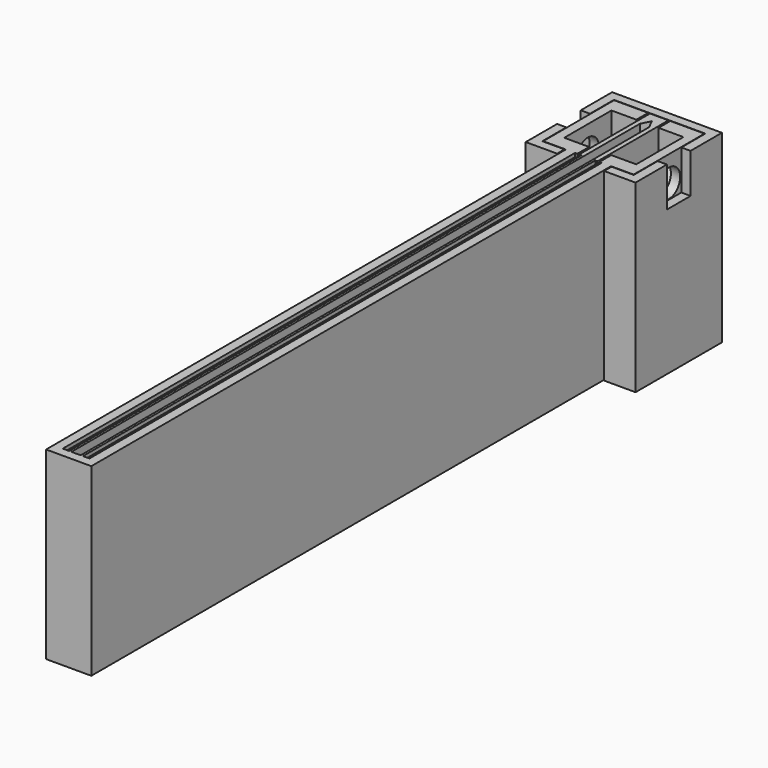
from build123d import *

# Parameters (mm, degrees)
RECTANGLE019_W         = 3.2
RECTANGLE019_H         = 4.3
EXTRUSION029_DEPTH     = 17.8604402213
EXTRUSION028_DEPTH     = 20
FACE001_W              = 70.4
FACE001_H              = 20
EXTRUSION027_DEPTH     = 1.2
FACE_W                 = 70.4
FACE_H                 = 20
EXTRUSION026_DEPTH     = 1.2
CLONE2D008_W           = 0.7
CLONE2D008_H           = 69.4
EXTRUSION025_DEPTH     = 0.4
RECTANGLE018_W         = 0.7
RECTANGLE018_H         = 69.4
EXTRUSION024_DEPTH     = 0.4
RECTANGLE017_W         = 0.7
RECTANGLE017_H         = 69.4
EXTRUSION023_DEPTH     = 0.3
RECTANGLE016_W         = 0.7
RECTANGLE016_H         = 69.4
EXTRUSION022_DEPTH     = 0.3
CLONE2D004_R           = 1.5
EXTRUSION_DEPTH        = 1
CIRCLE001_R            = 1.5
EXTRUSION020_DEPTH     = 1.5
CIRCLE_R               = 1.5
EXTRUSION019_DEPTH     = 18.8711460539
RECTANGLE014_W         = 9.6
RECTANGLE014_H         = 20
EXTRUSION017_DEPTH     = 1
RECTANGLE013_W         = 6.4
RECTANGLE013_H         = 2.7712812921
EXTRUSION016_DEPTH     = 2.7
RECTANGLE012_W         = 6.4
RECTANGLE012_H         = 2.7712812921
EXTRUSION015_DEPTH     = 2.7
EXTRUSION014_DEPTH     = 2.7
EXTRUSION013_DEPTH     = 2.7
RECTANGLE011_W         = 9.6
RECTANGLE011_H         = 20
EXTRUSION011_DEPTH     = 0.25
RECTANGLE010_W         = 9.44665831
RECTANGLE010_H         = 103.1218659611
EXTRUSION010_DEPTH     = 80.6022812444
RECTANGLE009_W         = 15.0148324292
RECTANGLE009_H         = 103.2643527035
EXTRUSION009_DEPTH     = 80.6022812444
RECTANGLE008_W         = 7.8
RECTANGLE008_H         = 20
EXTRUSION008_DEPTH     = 104.8179216702
RECTANGLE005_W         = 1
RECTANGLE005_H         = 200.9596025133
EXTRUSION005_DEPTH     = 79
RECTANGLE004_W         = 0.2
RECTANGLE004_H         = 30
EXTRUSION003_DEPTH     = 79
CLONE2D_W              = 0.2
CLONE2D_H              = 30
EXTRUSION004_DEPTH     = 79
RECTANGLE002_W         = 20
RECTANGLE002_H         = 20
EXTRUSION002_DEPTH     = 80
EXTRUSION006_DEPTH     = 55.9863181429
RECTANGLE006_W         = 20
RECTANGLE006_H         = 1
EXTRUSION007_DEPTH     = 2
CUT005_PLACEMENT_ANGLE = 270
CLONE2D002_W           = 9.6
CLONE2D002_H           = 20
EXTRUSION012_DEPTH     = 0.25
RECTANGLE015_W         = 9.6
RECTANGLE015_H         = 20
EXTRUSION018_DEPTH     = 1
CIRCLE002_R            = 1.5
EXTRUSION021_DEPTH     = 1
CIRCLE003_R            = 1.5
EXTRUSION030_DEPTH     = 1


with BuildPart() as extrusion030:
    # Rectangle019 → Extrusion029 (new body)
    with BuildSketch(Plane(origin=(46.5756657044, 93.2944395523, -63.8), x_dir=(0, -1, 0), z_dir=(-1, 0, 0))):
        with Locations((1.6, 2.15)):
            Rectangle(RECTANGLE019_W, RECTANGLE019_H)
    extrude(amount=-EXTRUSION029_DEPTH)


with BuildPart() as cut018002:
    # Wire001 → Extrusion028 (new body)
    with BuildSketch(Plane(origin=(55.0756657044, 85.8444395523, -59.5), x_dir=(1, 0, 0), z_dir=(0, 0, 1))):
        Polygon((0, 0), (3.4, 0), (3.4, 11.7), (-8.5, 11.7), (-8.5, 0), (-5.1, 0), (-5.1, 1), (-7.5, 1), (-7.5, 10.7), (2.4, 10.7), (2.4, 1), (0, 1), align=None)
    extrude(amount=-EXTRUSION028_DEPTH)

    # Cut018002: cut Extrusion030
    add(extrusion030.part, mode=Mode.SUBTRACT)


with BuildPart() as extrusion028:
    # Face001 → Extrusion027 (new body)
    with BuildSketch(Plane(origin=(56.1756657044, 51.6944395523, -69.5), x_dir=(0, -1, 0), z_dir=(1, 0, 0))):
        Rectangle(FACE001_W, FACE001_H)
    extrude(amount=-EXTRUSION027_DEPTH)


with BuildPart() as extrusion027:
    # Face → Extrusion026 (new body)
    with BuildSketch(Plane(origin=(48.8756657044, 51.6944395523, -69.5), x_dir=(0, 1, 0), z_dir=(-1, 0, 0))):
        Rectangle(FACE_W, FACE_H)
    extrude(amount=-EXTRUSION026_DEPTH)


with BuildPart() as extrusion026:
    # Clone2D008 → Extrusion025 (new body)
    with BuildSketch(Plane(origin=(51.0756657044, 86.8944395523, -59.5), x_dir=(1, 0, 0), z_dir=(0, 0, -1))):
        with Locations((0.35, 34.7)):
            Rectangle(CLONE2D008_W, CLONE2D008_H)
    extrude(amount=EXTRUSION025_DEPTH)


with BuildPart() as extrusion025:
    # Rectangle018 → Extrusion024 (new body)
    with BuildSketch(Plane(origin=(53.2756657044, 86.8944395523, -59.5), x_dir=(1, 0, 0), z_dir=(0, 0, -1))):
        with Locations((0.35, 34.7)):
            Rectangle(RECTANGLE018_W, RECTANGLE018_H)
    extrude(amount=EXTRUSION024_DEPTH)


with BuildPart() as extrusion024:
    # Rectangle017 → Extrusion023 (new body)
    with BuildSketch(Plane(origin=(51.0756657044, 86.8944395523, -79.5), x_dir=(1, 0, 0), z_dir=(0, 0, -1))):
        with Locations((0.35, 34.7)):
            Rectangle(RECTANGLE017_W, RECTANGLE017_H)
    extrude(amount=-EXTRUSION023_DEPTH)


with BuildPart() as extrusion023:
    # Rectangle016 → Extrusion022 (new body)
    with BuildSketch(Plane(origin=(53.2756657044, 86.8944395523, -79.5), x_dir=(1, 0, 0), z_dir=(0, 0, -1))):
        with Locations((0.35, 34.7)):
            Rectangle(RECTANGLE016_W, RECTANGLE016_H)
    extrude(amount=-EXTRUSION022_DEPTH)


with BuildPart() as extrusion:
    # Clone2D004 → Extrusion (new body)
    with BuildSketch(Plane(origin=(52.0256657044, 53.8444395523, -76.7287187079), x_dir=(0, -1, 0), z_dir=(-1, 0, 0))):
        Circle(CLONE2D004_R)
    extrude(amount=-EXTRUSION_DEPTH)


with BuildPart() as extrusion021:
    # Circle001 → Extrusion020 (new body)
    with BuildSketch(Plane(origin=(51.5256657044, 91.6944395523, -62.2712812921), x_dir=(0, -1, 0), z_dir=(-1, 0, 0))):
        Circle(CIRCLE001_R)
    extrude(amount=-EXTRUSION020_DEPTH)


with BuildPart() as extrusion019:
    # Circle → Extrusion019 (new body)
    with BuildSketch(Plane(origin=(48.6256657044, 91.6944395523, -62.2712812921), x_dir=(0, -1, 0), z_dir=(-1, 0, 0))):
        Circle(CIRCLE_R)
    extrude(amount=EXTRUSION019_DEPTH)


with BuildPart() as cut013:
    # Rectangle014 → Extrusion017 (new body)
    with BuildSketch(Plane(origin=(48.6256657044, 96.4944395523, -79.5), x_dir=(0, -1, 0), z_dir=(-1, 0, 0))):
        with Locations((4.8, 10)):
            Rectangle(RECTANGLE014_W, RECTANGLE014_H)
    extrude(amount=EXTRUSION017_DEPTH)

    # Cut013: cut Extrusion019
    add(extrusion019.part, mode=Mode.SUBTRACT)


with BuildPart() as extrusion016:
    # Rectangle013 → Extrusion016 (new body)
    with BuildSketch(Plane(origin=(56.4256657044, 88.4944395523, -62.2712812921), x_dir=(0, 1, 0), z_dir=(1, 0, 0))):
        with Locations((3.2, 1.3856406461)):
            Rectangle(RECTANGLE013_W, RECTANGLE013_H)
    extrude(amount=-EXTRUSION016_DEPTH)


with BuildPart() as extrusion015:
    # Rectangle012 → Extrusion015 (new body)
    with BuildSketch(Plane(origin=(48.6256657044, 94.8944395523, -62.2712812921), x_dir=(0, -1, 0), z_dir=(-1, 0, 0))):
        with Locations((3.2, 1.3856406461)):
            Rectangle(RECTANGLE012_W, RECTANGLE012_H)
    extrude(amount=-EXTRUSION015_DEPTH)


with BuildPart() as extrusion014:
    # Polygon → Extrusion014 (new body)
    with BuildSketch(Plane(origin=(48.6256657044, 91.6944395523, -62.2712812921), x_dir=(0, 1, 0), z_dir=(1, 0, 0))):
        Polygon((3.2, 0), (1.6, 2.7712812921), (-1.6, 2.7712812921), (-3.2, 0), (-1.6, -2.7712812921), (1.6, -2.7712812921), align=None)
    extrude(amount=EXTRUSION014_DEPTH)


with BuildPart() as extrusion013:
    # Clone2D001 → Extrusion013 (new body)
    with BuildSketch(Plane(origin=(56.4256657044, 91.6944395523, -62.2712812921), x_dir=(0, 1, 0), z_dir=(1, 0, 0))):
        Polygon((3.2, 0), (1.6, 2.7712812921), (-1.6, 2.7712812921), (-3.2, 0), (-1.6, -2.7712812921), (1.6, -2.7712812921), align=None)
    extrude(amount=-EXTRUSION013_DEPTH)


with BuildPart() as extrusion011:
    # Rectangle011 → Extrusion011 (new body)
    with BuildSketch(Plane(origin=(56.1756657044, 86.8944395523, -79.5), x_dir=(0, 1, 0), z_dir=(1, 0, 0))):
        with Locations((4.8, 10)):
            Rectangle(RECTANGLE011_W, RECTANGLE011_H)
    extrude(amount=EXTRUSION011_DEPTH)


with BuildPart() as extrusion010:
    # Rectangle010 → Extrusion010 (new body)
    with BuildSketch(Plane(origin=(56.1756657044, -6.6274264088, -59.5), x_dir=(1, 0, 0), z_dir=(0, 0, 1))):
        with Locations((4.723329155, 51.5609329805)):
            Rectangle(RECTANGLE010_W, RECTANGLE010_H)
    extrude(amount=-EXTRUSION010_DEPTH)


with BuildPart() as extrusion009:
    # Rectangle009 → Extrusion009 (new body)
    with BuildSketch(Plane(origin=(33.8608332752, -6.7699131513, -59.5), x_dir=(1, 0, 0), z_dir=(0, 0, 1))):
        with Locations((7.5074162146, 51.6321763518)):
            Rectangle(RECTANGLE009_W, RECTANGLE009_H)
    extrude(amount=-EXTRUSION009_DEPTH)


with BuildPart() as extrusion008:
    # Rectangle008 → Extrusion008 (new body)
    with BuildSketch(Plane(origin=(66.4256657044, 16.4944395523, 0.5), x_dir=(-1, 0, 0), z_dir=(0, 0, 1))):
        with Locations((3.9, 10)):
            Rectangle(RECTANGLE008_W, RECTANGLE008_H)
    extrude(amount=-EXTRUSION008_DEPTH)


with BuildPart() as extrusion005:
    # Rectangle005 → Extrusion005 (new body)
    with BuildSketch(Plane(origin=(53.0256657044, 101.9742408089, 0.5), x_dir=(-1, 0, 0), z_dir=(0, 0, 1))):
        with Locations((0.5, 100.4798012566)):
            Rectangle(RECTANGLE005_W, RECTANGLE005_H)
    extrude(amount=-EXTRUSION005_DEPTH)


with BuildPart() as extrusion003:
    # Rectangle004 → Extrusion003 (new body)
    with BuildSketch(Plane(origin=(51.3256657044, -13.5055604477, 0.5), x_dir=(1, 0, 0), z_dir=(0, 0, 1))):
        with Locations((0.1, 15)):
            Rectangle(RECTANGLE004_W, RECTANGLE004_H)
    extrude(amount=-EXTRUSION003_DEPTH)


with BuildPart() as extrusion004:
    # Clone2D → Extrusion004 (new body)
    with BuildSketch(Plane(origin=(53.5256657044, -13.5055604477, 0.5), x_dir=(1, 0, 0), z_dir=(0, 0, 1))):
        with Locations((0.1, 15)):
            Rectangle(CLONE2D_W, CLONE2D_H)
    extrude(amount=-EXTRUSION004_DEPTH)


with BuildPart() as cut003:
    # Rectangle002 → Extrusion002 (new body)
    with BuildSketch(Plane(origin=(46.4256657044, -3.5055604477, 0.5), x_dir=(1, 0, 0), z_dir=(0, 0, 1))):
        with Locations((10, 10)):
            Rectangle(RECTANGLE002_W, RECTANGLE002_H)
    extrude(amount=-EXTRUSION002_DEPTH)

    # Cut001: cut Extrusion004
    add(extrusion004.part, mode=Mode.SUBTRACT)

    # Cut002: cut Extrusion003
    add(extrusion003.part, mode=Mode.SUBTRACT)

    # Cut003: cut Extrusion005
    add(extrusion005.part, mode=Mode.SUBTRACT)


with BuildPart() as extrusion006:
    # Wire → Extrusion006 (new body)
    with BuildSketch(Plane(origin=(52.0256657044, -3.5055604477, -1.5), x_dir=(1, 0, 0), z_dir=(0, -1, 0))):
        Polygon((0, 0), (0.5, 1), (1, 0), align=None)
    extrude(amount=-EXTRUSION006_DEPTH)


with BuildPart() as fusion001:
    # Rectangle006 → Extrusion007 (new body)
    with BuildSketch(Plane(origin=(53.0256657044, -3.5055604477, 0.5), x_dir=(0, 1, 0), z_dir=(0, 0, 1))):
        with Locations((10, 0.5)):
            Rectangle(RECTANGLE006_W, RECTANGLE006_H)
    extrude(amount=-EXTRUSION007_DEPTH)

    # Cut004: cut Extrusion006
    add(extrusion006.part, mode=Mode.SUBTRACT)

    # Fusion: union Cut003
    add(cut003.part)

    # Cut005: cut Extrusion008
    add(extrusion008.part, mode=Mode.SUBTRACT)


with BuildPart() as fusion001_1:
    # Cut005 placement: moved
    add(fusion001.part.moved(Location((0, 95.9944395523, -63.0055604477))).rotate(Axis((0, 95.9944395523, -63.0055604477), (1, 0, 0)), CUT005_PLACEMENT_ANGLE))

    # Cut006: cut Extrusion009
    add(extrusion009.part, mode=Mode.SUBTRACT)

    # Cut007: cut Extrusion010
    add(extrusion010.part, mode=Mode.SUBTRACT)

    # Fusion001: union Extrusion011
    add(extrusion011.part)


with BuildPart() as cut011:
    # Clone2D002 → Extrusion012 (new body)
    with BuildSketch(Plane(origin=(48.8756657044, 86.8944395523, -79.5), x_dir=(0, 1, 0), z_dir=(1, 0, 0))):
        with Locations((4.8, 10)):
            Rectangle(CLONE2D002_W, CLONE2D002_H)
    extrude(amount=-EXTRUSION012_DEPTH)

    # Fusion002: union Fusion001
    add(fusion001_1.part)

    # Cut008: cut Extrusion013
    add(extrusion013.part, mode=Mode.SUBTRACT)

    # Cut009: cut Extrusion014
    add(extrusion014.part, mode=Mode.SUBTRACT)

    # Cut010: cut Extrusion015
    add(extrusion015.part, mode=Mode.SUBTRACT)

    # Cut011: cut Extrusion016
    add(extrusion016.part, mode=Mode.SUBTRACT)


with BuildPart() as extrusion020:
    # Clone base: copy of Extrusion019
    add(extrusion019.part)


with BuildPart() as extrusion020_1:
    # Clone placement: moved
    add(extrusion020.part.moved(Location((26.6711460539, 0, 0))))


with BuildPart() as fusion003002:
    # Rectangle015 → Extrusion018 (new body)
    with BuildSketch(Plane(origin=(56.4256657044, 96.4944395523, -79.5), x_dir=(0, -1, 0), z_dir=(-1, 0, 0))):
        with Locations((4.8, 10)):
            Rectangle(RECTANGLE015_W, RECTANGLE015_H)
    extrude(amount=-EXTRUSION018_DEPTH)

    # Cut012: cut Extrusion020
    add(extrusion020_1.part, mode=Mode.SUBTRACT)

    # Fusion003: union Cut013, Cut011
    add(cut013.part)
    add(cut011.part)

    # Fusion003002: union Extrusion021
    add(extrusion021.part)


with BuildPart() as cut018001:
    # Circle002 → Extrusion021 (new body)
    with BuildSketch(Plane(origin=(52.0256657044, 53.8444395523, -62.2712812921), x_dir=(0, -1, 0), z_dir=(-1, 0, 0))):
        Circle(CIRCLE002_R)
    extrude(amount=-EXTRUSION021_DEPTH)

    # Fusion003003: union Extrusion, Fusion003002
    add(extrusion.part)
    add(fusion003002.part)

    # Cut: cut Extrusion023
    add(extrusion023.part, mode=Mode.SUBTRACT)

    # Cut014: cut Extrusion024
    add(extrusion024.part, mode=Mode.SUBTRACT)

    # Cut015: cut Extrusion025
    add(extrusion025.part, mode=Mode.SUBTRACT)

    # Cut016: cut Extrusion026
    add(extrusion026.part, mode=Mode.SUBTRACT)

    # Cut017: cut Extrusion027
    add(extrusion027.part, mode=Mode.SUBTRACT)

    # Cut018: cut Extrusion028
    add(extrusion028.part, mode=Mode.SUBTRACT)


with BuildPart() as fusion003004:
    # Circle003 → Extrusion030 (new body)
    with BuildSketch(Plane(origin=(53.0256657044, 91.6944395523, -76.7287187079), x_dir=(0, -1, 0), z_dir=(-1, 0, 0))):
        Circle(CIRCLE003_R)
    extrude(amount=EXTRUSION030_DEPTH)

    # Fusion003004: union Cut018001
    add(cut018001.part)


solid = Compound([cut018002.part, fusion003004.part])
